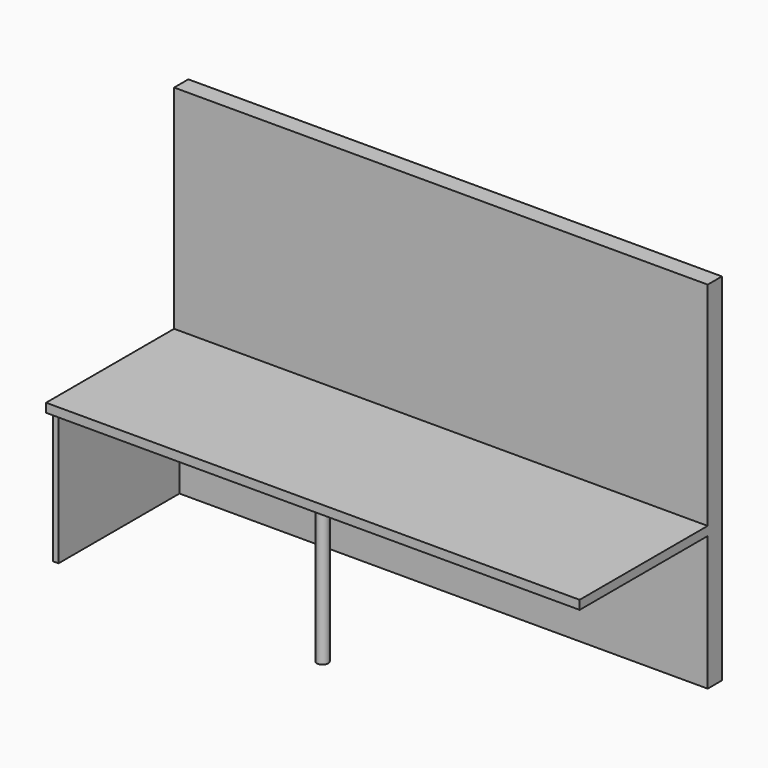
from build123d import *

# Parameters (mm, degrees)
F0_W     = 300
F0_H     = 10
F1_DEPTH = 200
F2_W     = 300
F2_H     = 5
F3_DEPTH = 90
F4_W     = 3
F4_H     = 75.580552
F5_DEPTH = 85
F6_R     = 3.189663
F7_DEPTH = 77


with BuildPart() as f1:
    # F0 (on Top) → F1 (new body)
    with BuildSketch(Plane.XY):
        with Locations((0, 15.697824)):
            Rectangle(F0_W, F0_H)
    extrude(amount=F1_DEPTH)

    # F2 (on face) → F3 (join)
    with BuildSketch(Plane.XZ.offset(-10.697824)):
        with Locations((0, 78.080552)):
            Rectangle(F2_W, F2_H)
    extrude(amount=F3_DEPTH)

    # F4 (on face) → F5 (join)
    with BuildSketch(Plane.XZ.offset(-10.697824)):
        with Locations((-148.5, 37.790276)):
            Rectangle(F4_W, F4_H)
    extrude(amount=F5_DEPTH)

    # F6 (on face) → F7 (join)
    with BuildSketch(Plane(origin=(0, 0, 75.580552), x_dir=(1, 0, 0), z_dir=(0, 0, -1))):
        with Locations((0, 72.494209)):
            Circle(F6_R)
    extrude(amount=F7_DEPTH)


solid = f1.part
